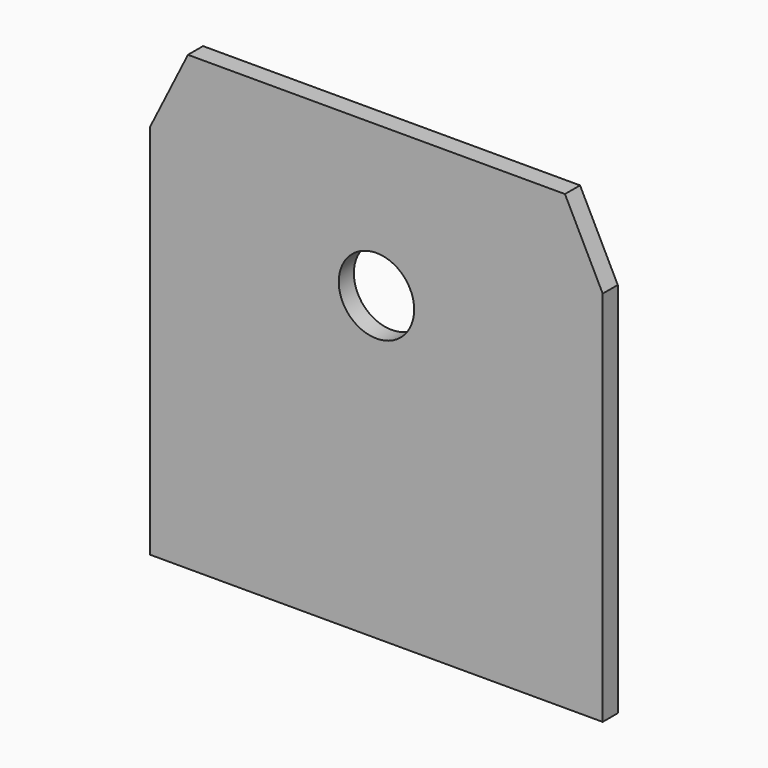
from build123d import *

# Parameters (mm, degrees)
F0_W     = 152.4
F0_H     = 152.4
F1_DEPTH = 6.35
F3_DEPTH = 25.4
F5_DEPTH = 25.4


with BuildPart() as f1:
    # F0 (on Front) → F1 (new body)
    with BuildSketch(Plane.XZ):
        with Locations((-99.789874, 97.348559)):
            Rectangle(F0_W, F0_H)
    extrude(amount=F1_DEPTH)

    # F2 (on face) → F3 (cut)
    with BuildSketch(Plane.XZ.offset(6.35)):
        Polygon((-163.289874, 173.548559), (-175.989874, 173.548559), (-175.989874, 148.148559), align=None)
        Polygon((-23.589874, 173.548559), (-36.289874, 173.548559), (-23.589874, 148.148559), align=None)
    extrude(amount=-F3_DEPTH, mode=Mode.SUBTRACT)

    # F4 (on face) → F5 (cut)
    with BuildSketch(Plane.XZ.offset(6.35)):
        with BuildLine():
            ThreePointArc((-87.089874, 122.748559), (-90.809618, 131.728815), (-99.789874, 135.448559))
            ThreePointArc((-99.789874, 135.448559), (-108.77013, 113.768303), (-87.089874, 122.748559))
        make_face()
    extrude(amount=-F5_DEPTH, mode=Mode.SUBTRACT)


solid = f1.part
